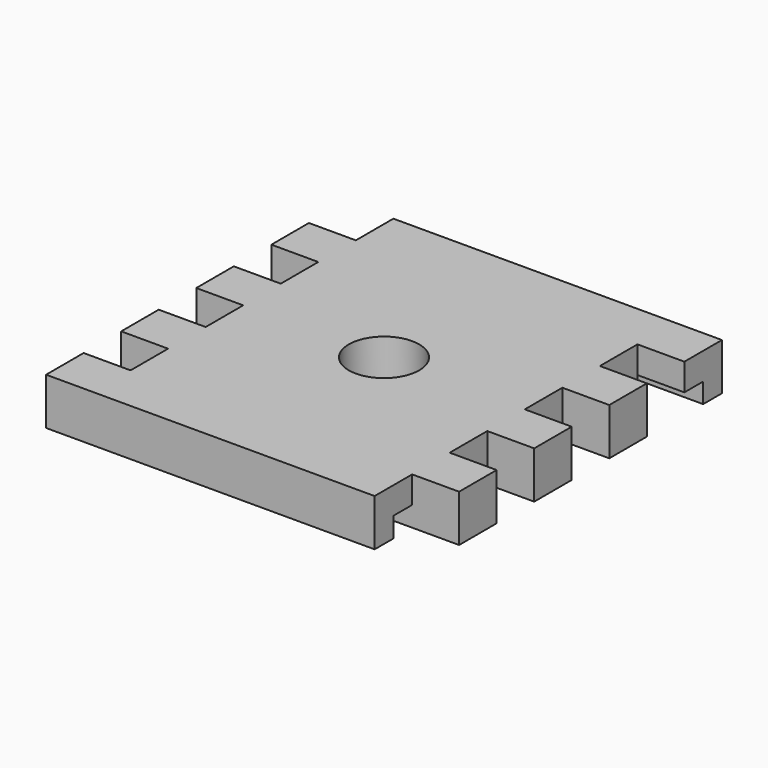
from build123d import *

# Parameters (mm, degrees)
F0_W      = 101.6
F0_H      = 101.6
F1_DEPTH  = 12.7
F2_W      = 12.7
F2_H      = 12.7
F3_DEPTH  = 12.701
F4_W      = 12.7
F4_H      = 12.7
F5_DEPTH  = 12.701
F6_W      = 6.35
F6_H      = 5.423685
F7_DEPTH  = 88.901
F8_W      = 6.35
F8_H      = 5.389227
F9_DEPTH  = 88.901
F10_R     = 9.525
F11_DEPTH = 12.701


with BuildPart() as f1:
    # F0 (on Top) → F1 (new body)
    with BuildSketch(Plane.XY):
        Rectangle(F0_W, F0_H)
    extrude(amount=F1_DEPTH)

    # F2 (on face) → F3 (cut, through all)
    with BuildSketch(Plane.XY.offset(12.7)):
        with Locations((-44.45, 19.05)):
            Rectangle(F2_W, F2_H)
        with Locations((-44.45, 44.45)):
            Rectangle(F2_W, F2_H)
        with Locations((-44.45, -6.35)):
            Rectangle(F2_W, F2_H)
        with Locations((-44.45, -31.75)):
            Rectangle(F2_W, F2_H)
    extrude(amount=-F3_DEPTH, mode=Mode.SUBTRACT)

    # F4 (on face) → F5 (cut, through all)
    with BuildSketch(Plane.XY.offset(12.7)):
        with Locations((44.45, 31.75)):
            Rectangle(F4_W, F4_H)
        with Locations((44.45, 6.35)):
            Rectangle(F4_W, F4_H)
        with Locations((44.45, -19.05)):
            Rectangle(F4_W, F4_H)
        with Locations((44.45, -44.45)):
            Rectangle(F4_W, F4_H)
    extrude(amount=-F5_DEPTH, mode=Mode.SUBTRACT)

    # F6 (on face) → F7 (cut, through all)
    with BuildSketch(Plane.YZ.offset(38.1)):
        with Locations((-41.275, 2.711842)):
            Rectangle(F6_W, F6_H)
    extrude(amount=-F7_DEPTH, mode=Mode.SUBTRACT)

    # F8 (on face) → F9 (cut, through all)
    with BuildSketch(Plane(origin=(-38.1, 0, 0), x_dir=(0, -1, 0), z_dir=(-1, 0, 0))):
        with Locations((-41.275, 2.694613)):
            Rectangle(F8_W, F8_H)
    extrude(amount=-F9_DEPTH, mode=Mode.SUBTRACT)

    # F10 (on face) → F11 (cut, through all)
    with BuildSketch(Plane.XY.offset(12.7)):
        Circle(F10_R)
    extrude(amount=-F11_DEPTH, mode=Mode.SUBTRACT)


solid = f1.part
